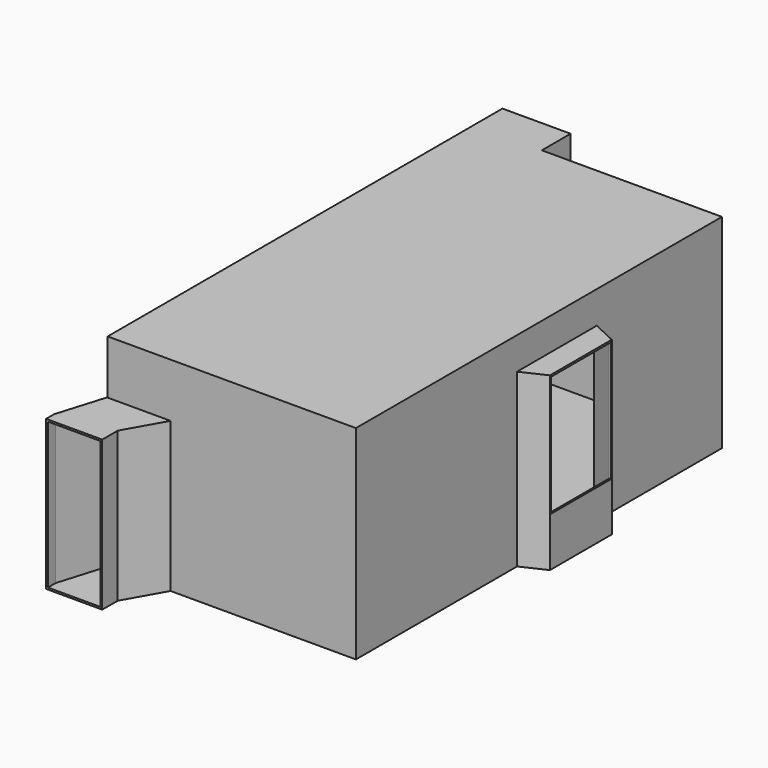
from build123d import *

# Parameters (mm, degrees)
F1_DEPTH  = 2670
F4_DEPTH  = 720
F7_DEPTH  = 430
F8_T      = 25
F9_W      = 1000
F9_H      = 1610
F10_DEPTH = 25


with BuildPart() as f1:
    # F0 (on Top) → F1 (new body)
    with BuildSketch(Plane.XY):
        Polygon((-2465, 0), (0, 0), (0, 2680), (320, 2830), (320, 3830), (0, 3980), (0, 6060), (-2405, 6060), (-2405, 6540), (-3265, 6540), (-3265, 0), (-3467.7313493271, -670), (-3467.7313493271, -800), (-2767.7313493271, -800), (-2767.7313493271, -535), align=None)
    extrude(amount=F1_DEPTH)

    # F3 (on offset) → F4 (cut, through all)
    with BuildSketch(Plane(origin=(0, 0, 1950), x_dir=(1, 0, 0), z_dir=(0, 0, -1))):
        Polygon((-3467.7313493271, 670), (-3265, 0), (-2465, 0), (-2767.7313493271, 535), (-2767.7313493271, 800), (-3467.7313493271, 800), align=None)
    extrude(amount=-F4_DEPTH, mode=Mode.SUBTRACT)

    # F6 (on offset) → F7 (cut, through all)
    with BuildSketch(Plane(origin=(0, 0, 2240), x_dir=(1, 0, 0), z_dir=(0, 0, -1))):
        Polygon((320, -3830), (320, -2830), (0, -2680), (0, -3980), align=None)
    extrude(amount=-F7_DEPTH, mode=Mode.SUBTRACT)

    # F8
    f8_openings = [f1.faces().sort_by_distance(p)[0] for p in [
        (-3117.731349, -800, 975),
    ]]
    offset(amount=F8_T, openings=f8_openings, kind=Kind.INTERSECTION)

    # F9 (on face) → F10 (cut, through all)
    with BuildSketch(Plane(origin=(320, 0, 0), x_dir=(0, -1, 0), z_dir=(-1, 0, 0))):
        with Locations((-3330, 1435)):
            Rectangle(F9_W, F9_H)
    extrude(amount=-F10_DEPTH, mode=Mode.SUBTRACT)


solid = f1.part
